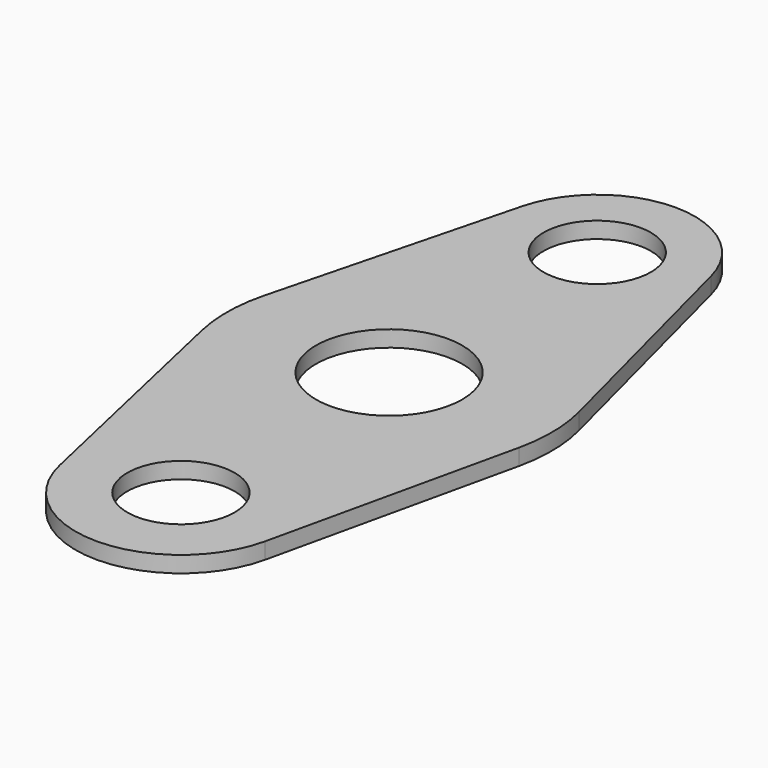
from build123d import *

# Parameters (mm, degrees)
F0_R     = 3.3
F0_R_2   = 4.5
F1_DEPTH = 0.5


with BuildPart() as f1:
    # F0 (on Top) → F1 (new body, symmetric)
    with BuildSketch(Plane.XY):
        with BuildLine():
            Line((9.6824583655, 2.5), (5.8094750193, 17.5))
            ThreePointArc((5.8094750193, 17.5), (0, 22), (-5.8094750193, 17.5))
            Line((-5.8094750193, 17.5), (-9.6824583655, 2.5))
            ThreePointArc((-9.6824583655, 2.5), (-9.9988004923, 0.1548829074), (-9.7552451354, -2.1989070806))
            Line((-9.7552451354, -2.1989070806), (-6.3231047192, -17.4252763047))
            ThreePointArc((-6.3231047192, -17.4252763047), (0, -22.4817486711), (6.3231047192, -17.4252763047))
            Line((6.3231047192, -17.4252763047), (9.7552451354, -2.1989070806))
            ThreePointArc((9.7552451354, -2.1989070806), (9.9988004923, 0.1548829074), (9.6824583655, 2.5))
        make_face()
        with Locations((0, -16)):
            Circle(F0_R, mode=Mode.SUBTRACT)
        Circle(F0_R_2, mode=Mode.SUBTRACT)
        with Locations((0, 16)):
            Circle(F0_R, mode=Mode.SUBTRACT)
    extrude(amount=F1_DEPTH, both=True)


solid = f1.part
